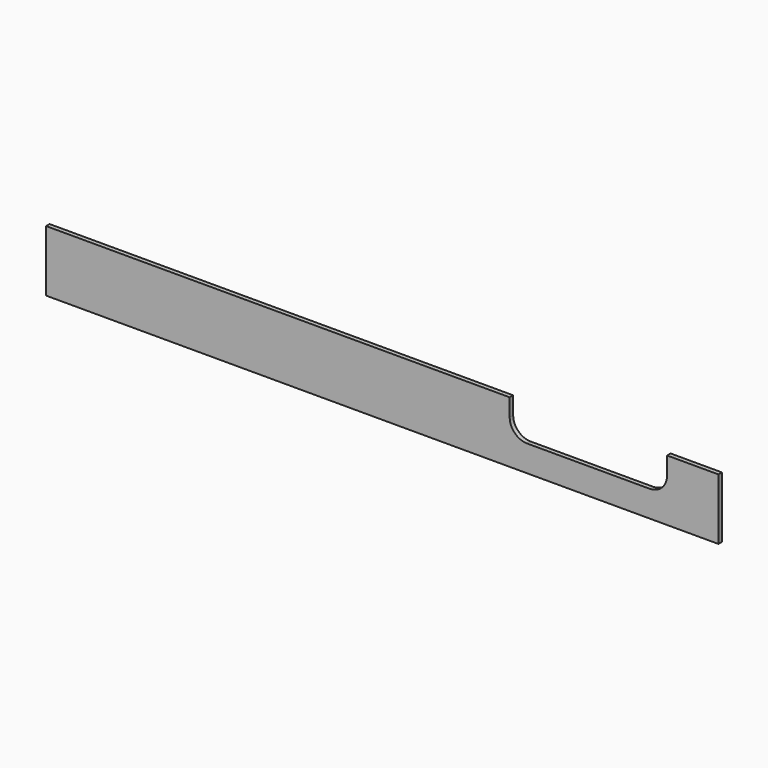
from build123d import *

# Parameters (mm, degrees)
F0_W     = 2438.4
F0_H     = 88.9
F1_DEPTH = 6.35
F3_DEPTH = 6.351
F4_R     = 25.4
F5_W     = 1462.224513
F5_H     = 88.9
F6_DEPTH = 6.351


with BuildPart() as f1:
    # F0 (on Front) → F1 (new body)
    with BuildSketch(Plane.XZ):
        with Locations((1219.2, 44.45)):
            Rectangle(F0_W, F0_H)
    extrude(amount=F1_DEPTH)

    # F2 (on face) → F3 (cut, through all)
    with BuildSketch(Plane.XZ.offset(6.35)):
        Polygon((901.7, 88.9), (673.1, 88.9), (673.1, 38.1), (787.4, 38.1), (901.7, 38.1), align=None)
    extrude(amount=-F3_DEPTH, mode=Mode.SUBTRACT)

    # F4
    f4_edges = [f1.edges().sort_by_distance(p)[0] for p in [
        (673.1, -3.175, 38.1),
        (901.7, -3.175, 38.1),
    ]]
    fillet(f4_edges, radius=F4_R)

    # F5 (on face) → F6 (cut, through all)
    with BuildSketch(Plane.XZ.offset(6.35)):
        with Locations((1707.287744, 44.45)):
            Rectangle(F5_W, F5_H)
    extrude(amount=-F6_DEPTH, mode=Mode.SUBTRACT)


solid = f1.part
